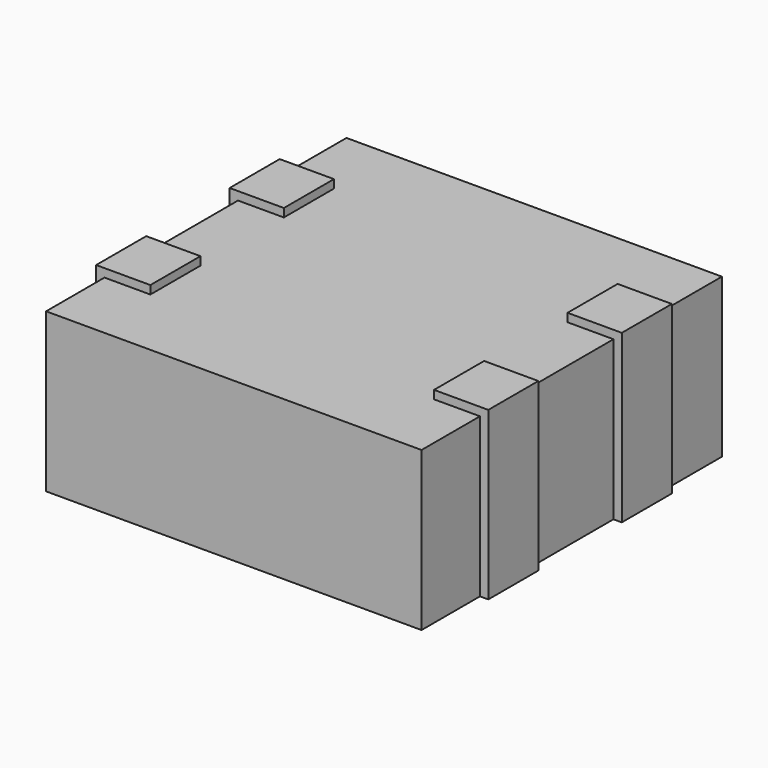
from build123d import *

# Parameters (mm, degrees)
SKETCH_W            = 4.5
SKETCH_H            = 4.5
PAD_DEPTH           = 1.9
SKETCH002_W         = 3.5
SKETCH002_H         = 3.5
PAD002_DEPTH        = 1
SKETCH001_W         = 0.65
SKETCH001_H         = 0.75
PAD003_DEPTH        = 2
LINEARPATTERN_COUNT = 2
LINEARPATTERN_PITCH = 4.05


with BuildPart() as body:
    # Sketch → Pad (new body)
    with BuildSketch(Plane.XY):
        with Locations((2.25, 2.25)):
            Rectangle(SKETCH_W, SKETCH_H)
    extrude(amount=PAD_DEPTH)


with BuildPart() as body001:
    # Sketch002 → Pad002 (new body)
    with BuildSketch(Plane.XY):
        with Locations((2.25, 2.25)):
            Rectangle(SKETCH002_W, SKETCH002_H)
    extrude(amount=PAD002_DEPTH)

    # Sketch001 → Pad003 (join)
    with BuildSketch(Plane.XY):
        with Locations((0.225, 1.25)):
            Rectangle(SKETCH001_W, SKETCH001_H)
        with Locations((0.225, 3.25)):
            Rectangle(SKETCH001_W, SKETCH001_H)
    pad003 = extrude(amount=PAD003_DEPTH)

    # LinearPattern: Pad003 ×2
    with Locations(*[(i * LINEARPATTERN_PITCH, 0, 0) for i in range(1, LINEARPATTERN_COUNT)]):
        add(pad003)


solid = Compound([body.part, body001.part])
